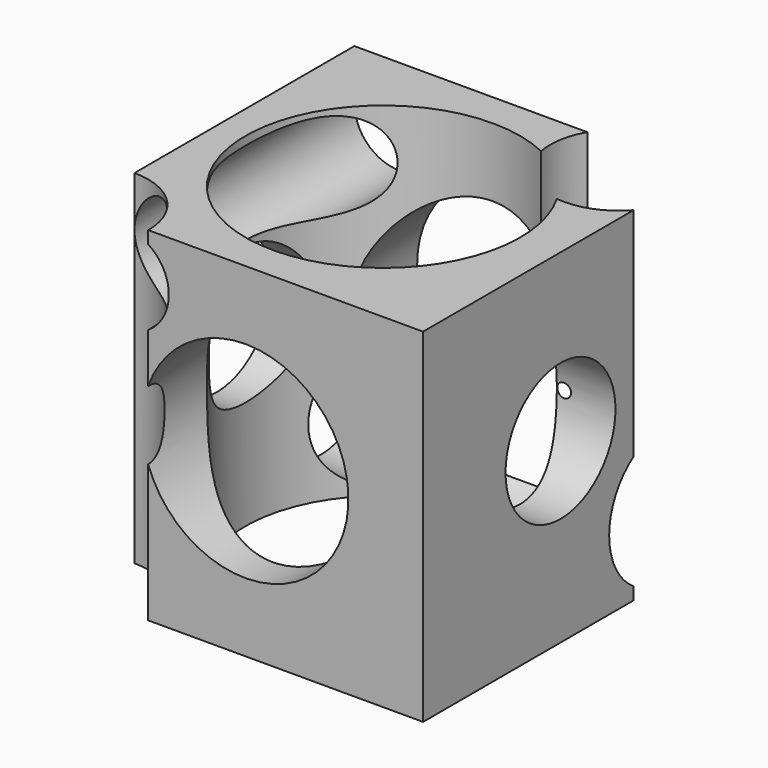
from build123d import *

# Parameters (mm, degrees)
F0_W     = 127
F0_H     = 127
F1_DEPTH = 127
F3_D     = 101.6
F5_D     = 76.2
F7_D     = 50.8
F9_D     = 50.8
F11_D    = 50.8
F13_D    = 33.02
F15_D    = 50.8


with BuildPart() as f1:
    # F0 (on Front) → F1 (new body)
    with BuildSketch(Plane.XZ):
        with Locations((2.180751, -2.115634)):
            Rectangle(F0_W, F0_H)
    extrude(amount=F1_DEPTH)

    # F3 (through all)
    with Locations(Plane.XY.offset(61.384366)):
        with Locations((0, -63.5)):
            Hole(F3_D / 2)

    # F5 (through all)
    with Locations(Plane.XZ.offset(127)):
        with Locations((0, -2.078177)):
            Hole(F5_D / 2)

    # F7 (through all)
    with Locations(Plane.YZ.offset(65.680751)):
        with Locations((-63.5, 0)):
            Hole(F7_D / 2)

    # F9 (through all)
    with Locations(Plane(origin=(-61.319249, 0, 0), x_dir=(0, -1, 0), z_dir=(-1, 0, 0))):
        with Locations((15.610497, -39.912883)):
            Hole(F9_D / 2)

    # F11 (through all)
    with Locations(Plane.XY.offset(61.384366)):
        with Locations((46.735998, -12.827001)):
            Hole(F11_D / 2)

    # F13 (through all)
    with Locations(Plane.XZ.offset(127)):
        with Locations((-44.805601, 42.824399)):
            Hole(F13_D / 2)

    # F15 (through all)
    with Locations(Plane(origin=(0, 0, -65.615634), x_dir=(1, 0, 0), z_dir=(0, 0, -1))):
        with Locations((-61.319249, 127)):
            Hole(F15_D / 2)


solid = f1.part
